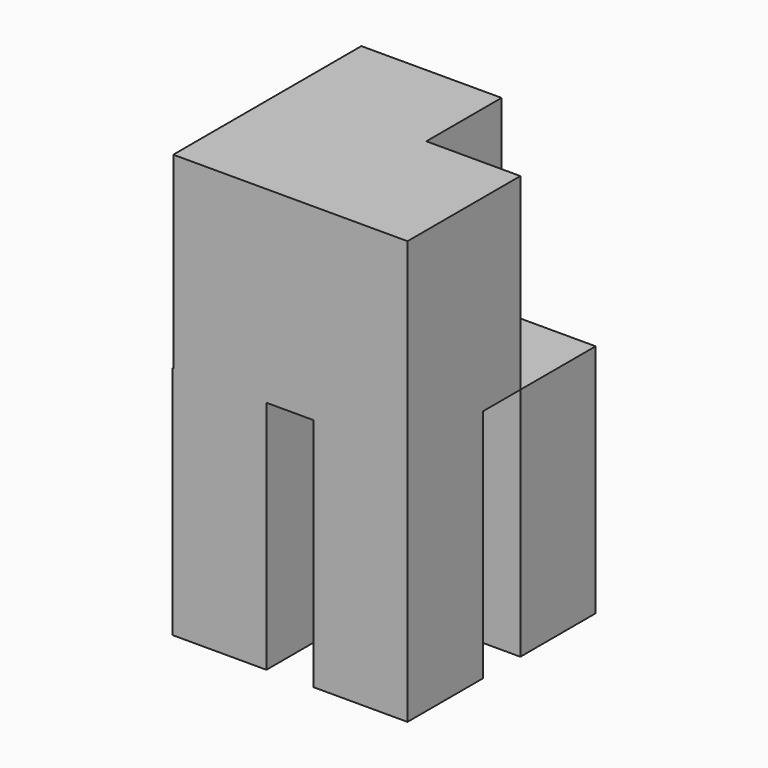
from build123d import *

# Parameters (mm, degrees)
F0_W     = 10
F0_H     = 10
F1_DEPTH = 25
F3_DEPTH = 20


with BuildPart() as f1:
    # F0 (on Top) → F1 (new body)
    with BuildSketch(Plane.XY):
        with Locations((-5, -5)):
            Rectangle(F0_W, F0_H)
        with Locations((10, 10)):
            Rectangle(F0_W, F0_H)
        with Locations((10, -5)):
            Rectangle(F0_W, F0_H)
        with Locations((-5, 10)):
            Rectangle(F0_W, F0_H)
    extrude(amount=F1_DEPTH)

    # F0 (on Top) + F2 (on face) → F3 (join)
    with BuildSketch(Plane.XY):
        with Locations((-5, -5)):
            Rectangle(F0_W, F0_H)
        with Locations((-5, 10)):
            Rectangle(F0_W, F0_H)
        with Locations((10, -5)):
            Rectangle(F0_W, F0_H)
        with Locations((10, 10)):
            Rectangle(F0_W, F0_H)
    with BuildSketch(Plane.XY.offset(25)):
        Polygon((5, 5), (5, 15), (-9.906975, 15), (-9.906975, -10), (15, -10), (15, 5), align=None)
    extrude(amount=F3_DEPTH)


solid = f1.part
